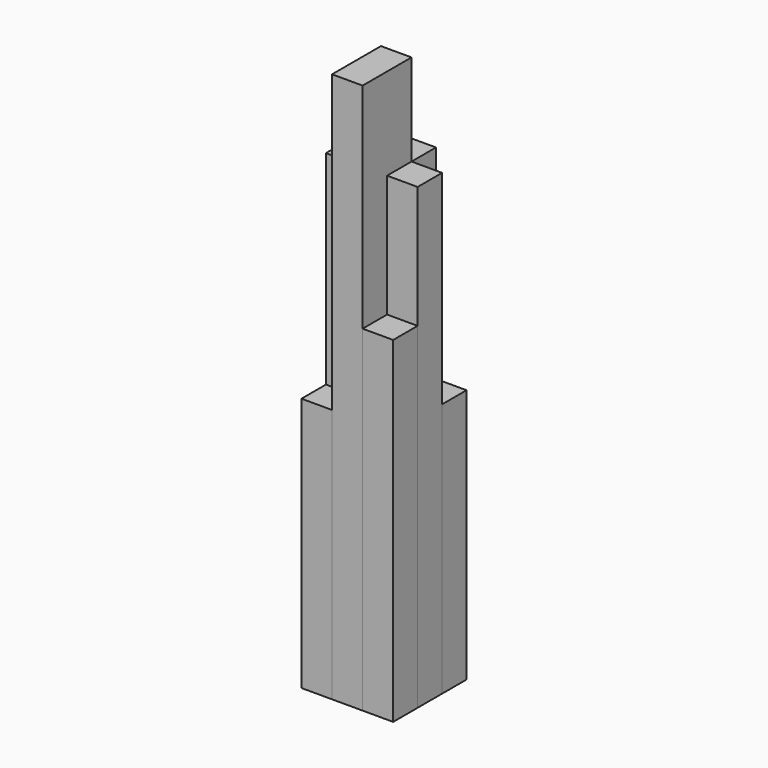
from build123d import *

# Parameters (mm, degrees)
F0_W     = 76.2
F0_H     = 76.2
F1_DEPTH = 635
F2_W     = 76.2
F2_H     = 76.2
F3_DEPTH = 838.2
F4_W     = 76.2
F4_H     = 76.2
F5_DEPTH = 1143
F6_W     = 76.2
F6_H     = 76.2
F7_DEPTH = 1371.6


with BuildPart() as f1:
    # F0 (on Top) → F1 (new body)
    with BuildSketch(Plane.XY):
        with Locations((76.2, 76.2)):
            Rectangle(F0_W, F0_H)
        with Locations((-76.2, -76.2)):
            Rectangle(F0_W, F0_H)
    extrude(amount=F1_DEPTH)


with BuildPart() as f3:
    # F2 (on Top) → F3 (new body)
    with BuildSketch(Plane.XY):
        with Locations((-76.2, 76.2)):
            Rectangle(F2_W, F2_H)
        with Locations((76.2, -76.2)):
            Rectangle(F2_W, F2_H)
    extrude(amount=F3_DEPTH)


with BuildPart() as f5:
    # F4 (on Top) → F5 (new body)
    with BuildSketch(Plane.XY):
        with Locations((76.2, 0)):
            Rectangle(F4_W, F4_H)
        with Locations((-76.2, 0)):
            Rectangle(F4_W, F4_H)
        with Locations((0, 76.2)):
            Rectangle(F4_W, F4_H)
    extrude(amount=F5_DEPTH)


with BuildPart() as f7:
    # F6 (on Top) → F7 (new body)
    with BuildSketch(Plane.XY):
        with Locations((0, -76.2)):
            Rectangle(F6_W, F6_H)
        Rectangle(F6_W, F6_H)
    extrude(amount=F7_DEPTH)


solid = Compound([f1.part, f3.part, f5.part, f7.part])
